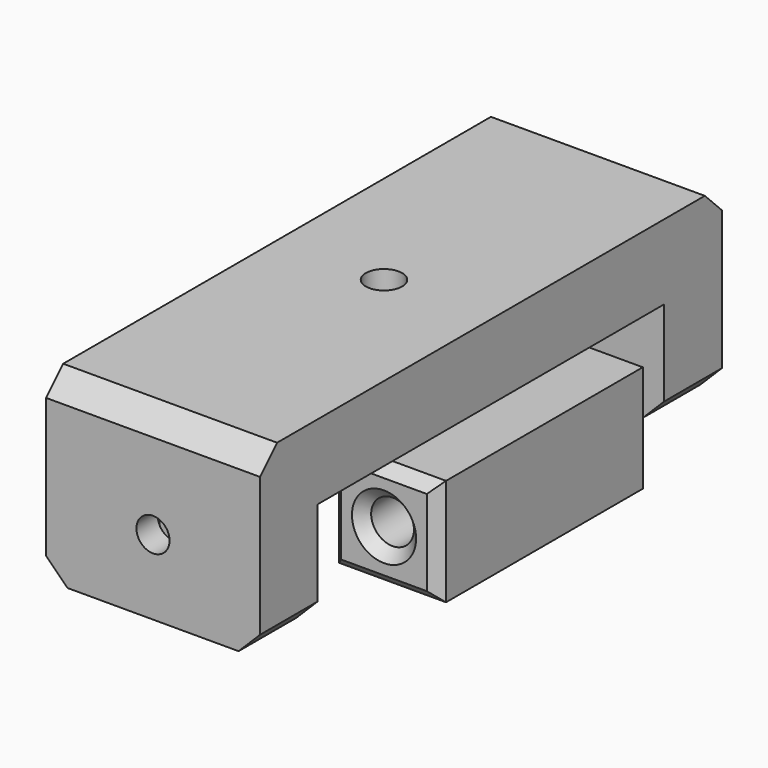
from build123d import *

# Parameters (mm, degrees)
SKETCH_W             = 20
SKETCH_H             = 54
PAD_DEPTH            = 17
SKETCH001_W          = 40.5
SKETCH001_H          = 10
POCKET_DEPTH         = 10.001
POCKET_DEPTH_BACK    = 10.001
HOLE_D               = 3.4
HOLE_CBORE_D         = 6.1
HOLE_CBORE_DEPTH     = 3.4
BINDER_W             = 2
BINDER_H             = 6
POCKET005_DEPTH      = 10
BINDER001_W          = 2
BINDER001_H          = 6
POCKET006_DEPTH      = 8
BINDER002_R          = 1.55
POCKET007_DEPTH      = 27.001
BINDER003_R          = 1.55
POCKET008_DEPTH      = 27.001
CHAMFER001_SIZE      = 2
SKETCH005_R          = 1.55
PAD001_DEPTH         = 10
SKETCH006_W          = 12.587973
SKETCH006_H          = 28.979589
POCKET003_DEPTH      = 5.5
SKETCH007_R          = 2
POCKET004_DEPTH      = 12.501
POCKET004_DEPTH_BACK = 12.501
CHAMFER_SIZE         = 1


with BuildPart() as mount:
    # Sketch → Pad (new body)
    with BuildSketch(Plane.XY):
        Rectangle(SKETCH_W, SKETCH_H)
    extrude(amount=PAD_DEPTH)

    # Sketch001 → Pocket (cut, two sides)
    with BuildSketch(Plane.YZ) as pocket_sk:
        with Locations((0, 5)):
            Rectangle(SKETCH001_W, SKETCH001_H)
    extrude(amount=-POCKET_DEPTH, mode=Mode.SUBTRACT)
    extrude(pocket_sk.sketch, amount=POCKET_DEPTH_BACK, mode=Mode.SUBTRACT)

    # Hole (through all)
    with Locations(Plane(origin=(0, 0, 10), x_dir=(-1, 0, 0), z_dir=(0, 0, -1))):
        with Locations((0, 0)):
            CounterBoreHole(HOLE_D / 2, HOLE_CBORE_D / 2, HOLE_CBORE_DEPTH)

    # Binder → Pocket005 (cut)
    with BuildSketch(Plane(origin=(0, -23.5, 0), x_dir=(0, 1, 0), z_dir=(0, 0, 1))):
        Rectangle(BINDER_W, BINDER_H)
    extrude(amount=POCKET005_DEPTH, mode=Mode.SUBTRACT)

    # Binder001 → Pocket006 (cut)
    with BuildSketch(Plane(origin=(0, 23.5, 0), x_dir=(0, 1, 0), z_dir=(0, 0, 1))):
        Rectangle(BINDER001_W, BINDER001_H)
    extrude(amount=POCKET006_DEPTH, mode=Mode.SUBTRACT)

    # Binder002 → Pocket007 (cut, through all)
    with BuildSketch(Plane(origin=(0, 0, 5), x_dir=(1, 0, 0), z_dir=(0, 1, 0))):
        Circle(BINDER002_R)
    extrude(amount=POCKET007_DEPTH, mode=Mode.SUBTRACT)

    # Binder003 → Pocket008 (cut, through all)
    with BuildSketch(Plane(origin=(0, 0, 7), x_dir=(1, 0, 0), z_dir=(0, 1, 0))):
        Circle(BINDER003_R)
    extrude(amount=-POCKET008_DEPTH, mode=Mode.SUBTRACT)

    # Chamfer001
    chamfer001_edges = [mount.edges().sort_by_distance(p)[0] for p in [
        (-10, 23.625, 0),
        (10, 23.625, 0),
        (-10, -23.625, 0),
        (10, -23.625, 0),
        (0, 27, 17),
        (0, -27, 17),
    ]]
    chamfer(chamfer001_edges, length=CHAMFER001_SIZE)


with BuildPart() as filament_guide:
    # Sketch005 → Pad001 (new body)
    with BuildSketch(Plane.XY):
        with BuildLine():
            ThreePointArc((0, 4.5), (-4.5, 0), (0, -4.5))
            ThreePointArc((5, -9.5), (3.5355339059, -5.9644660941), (0, -4.5))
            Line((5, -12.5), (5, -9.5))
            Line((15, -12.5), (5, -12.5))
            Line((15, 12.5), (15, -12.5))
            Line((5, 12.5), (15, 12.5))
            Line((5, 9.5), (5, 12.5))
            ThreePointArc((0, 4.5), (3.5355339059, 5.9644660941), (5, 9.5))
        make_face()
        Circle(SKETCH005_R, mode=Mode.SUBTRACT)
    extrude(amount=PAD001_DEPTH)

    # Sketch006 → Pocket003 (cut)
    with BuildSketch(Plane.XY):
        with Locations((-1.2939865, -0.7668695)):
            Rectangle(SKETCH006_W, SKETCH006_H)
    extrude(amount=POCKET003_DEPTH, mode=Mode.SUBTRACT)

    # Sketch007 → Pocket004 (cut, two sides)
    with BuildSketch(Plane.XZ) as pocket004_sk:
        with Locations((10, 5)):
            Circle(SKETCH007_R)
    extrude(amount=-POCKET004_DEPTH, mode=Mode.SUBTRACT)
    extrude(pocket004_sk.sketch, amount=POCKET004_DEPTH_BACK, mode=Mode.SUBTRACT)

    # Chamfer
    chamfer_edges = [filament_guide.edges().sort_by_distance(p)[0] for p in [
        (5, 12.5, 5),
        (10, 12.5, 0),
        (10, 12.5, 10),
        (15, 12.5, 5),
        (8, 12.5, 5),
        (15, -12.5, 5),
        (10, -12.5, 0),
        (10, -12.5, 10),
        (5, -12.5, 5),
        (8, -12.5, 5),
    ]]
    chamfer(chamfer_edges, length=CHAMFER_SIZE)


solid = Compound([mount.part, filament_guide.part])
